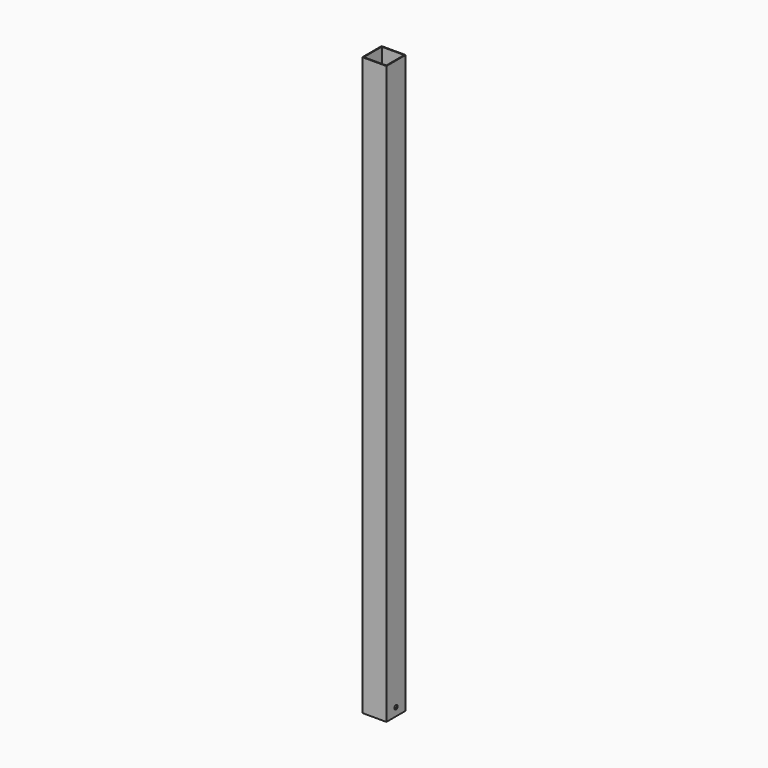
from build123d import *

# Parameters (mm, degrees)
F0_W     = 76.2
F0_H     = 76.2
F0_W_2   = 71.12
F0_H_2   = 71.12
F1_DEPTH = 1828.8
F3_D     = 12.7


with BuildPart() as f1:
    # F0 (on Top) → F1 (new body)
    with BuildSketch(Plane.XY):
        Rectangle(F0_W, F0_H)
        Rectangle(F0_W_2, F0_H_2, mode=Mode.SUBTRACT)
    extrude(amount=F1_DEPTH)

    # F3 (through all)
    with Locations(Plane(origin=(-38.1, 0, 0), x_dir=(0, -1, 0), z_dir=(-1, 0, 0))):
        with Locations((0, 25.4)):
            Hole(F3_D / 2)


solid = f1.part
